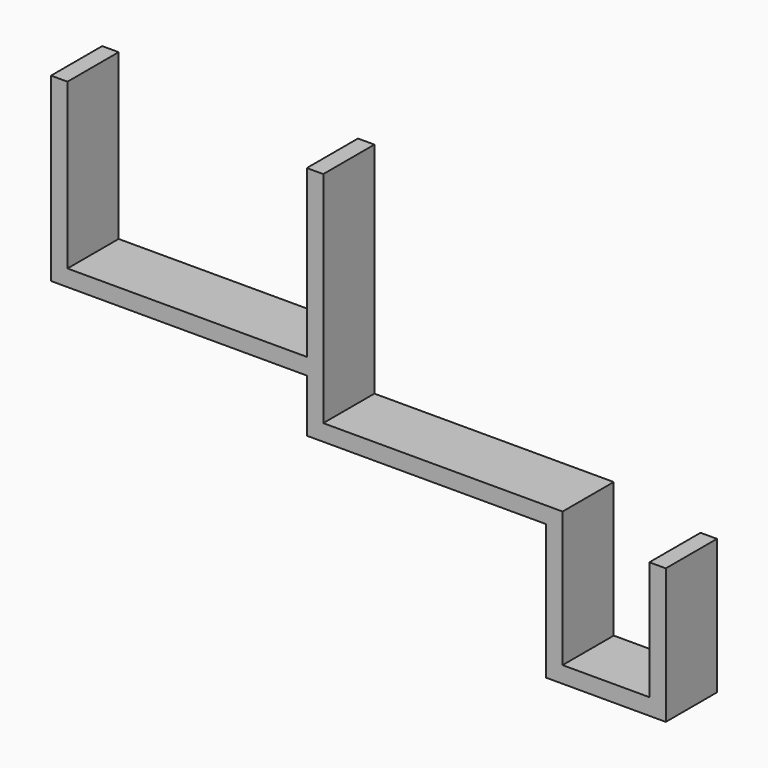
from build123d import *

# Parameters (mm, degrees)
F0_W     = 18
F0_H     = 18
F0_H_2   = 130
F0_H_3   = 180
F1_DEPTH = 70


with BuildPart() as f1:
    # F0 (on Front) → F1 (new body)
    with BuildSketch(Plane.XZ):
        with Locations((-9, 9)):
            Rectangle(F0_W, F0_H)
        Polygon((0, 18), (0, 0), (244, 0), (262, 0), (262, 18), align=None)
        Polygon((-18, 18), (0, 18), (0, 258), (-18, 258), (-18, 76), (-18, 66.81706), (-18, 58), align=None)
        with Locations((253, -65)):
            Rectangle(F0_W, F0_H_2)
        Polygon((262, -130), (244, -130), (244, -148), (357, -148), (357, -130), align=None)
        Polygon((-298, 58), (-18, 58), (-18, 66.81706), (-18, 76), (-280, 76), (-298, 76), align=None)
        with Locations((366, -65)):
            Rectangle(F0_W, F0_H_2)
        with Locations((366, -139)):
            Rectangle(F0_W, F0_H)
        with Locations((-289, 166)):
            Rectangle(F0_W, F0_H_3)
    extrude(amount=F1_DEPTH)


solid = f1.part
